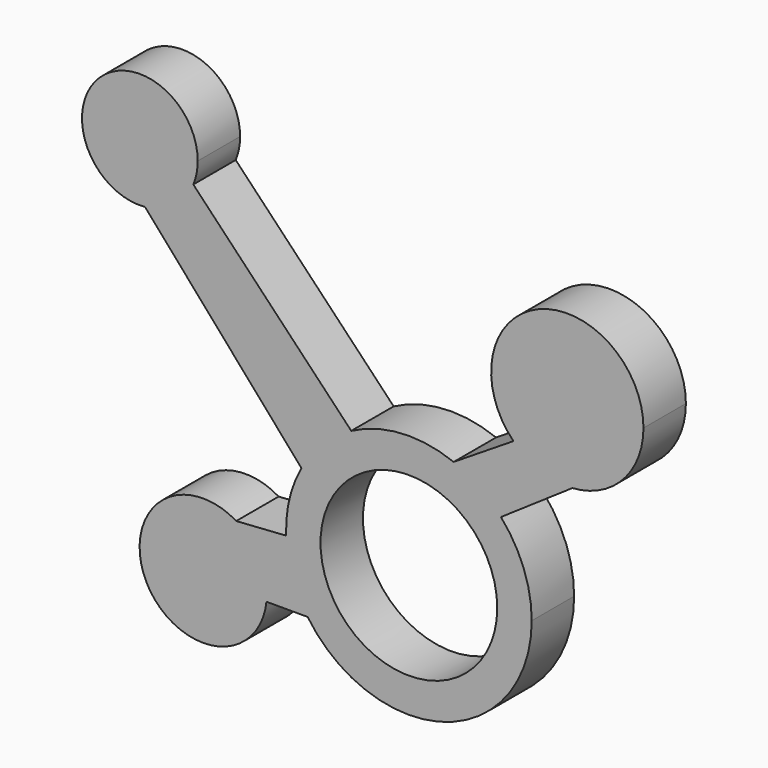
from build123d import *

# Parameters (mm, degrees)
F0_R     = 20
F1_DEPTH = 12


with BuildPart() as f1:
    # F0 (on Front) → F1 (new body)
    with BuildSketch(Plane.XZ):
        with BuildLine():
            ThreePointArc((-45.1402234044, 130.0868427911), (-44.3953824054, 132.5425897679), (-44.1438812161, 135.0964551676))
            ThreePointArc((-44.1438812161, 135.0964551676), (-66.902815449, 143.9263254526), (-56.0541389315, 122.0575825878))
            ThreePointArc((-56.0541389315, 122.0575825878), (-49.477735957, 124.5505867663), (-45.1402234044, 130.0868427911))
        make_face()
        with BuildLine():
            ThreePointArc((-45.1402234044, 130.0868427911), (-49.477735957, 124.5505867663), (-56.0541389315, 122.0575825878))
            Line((-56.0541389315, 122.0575825878), (-20.6749169362, 81.5374788645))
            ThreePointArc((-20.6749169362, 81.5374788645), (-15.8403911831, 87.9020164198), (-9.3949234629, 92.6281060737))
            Line((-9.3949234629, 92.6281060737), (-45.1402234044, 130.0868427911))
        make_face()
        with BuildLine():
            ThreePointArc((-9.3949234629, 92.6281060737), (-15.8403911831, 87.9020164198), (-20.6749169362, 81.5374788645))
            ThreePointArc((-20.6749169362, 81.5374788645), (-23.4023159827, 74.4832519056), (-24.1275682376, 66.9549830001))
            ThreePointArc((-24.1275682376, 66.9549830001), (-22.7294741415, 59.3041231282), (-19.2667531461, 52.3399370889))
            ThreePointArc((-19.2667531461, 52.3399370889), (11.8900093443, 41.5257597874), (31.4519924852, 68.0779554628))
            ThreePointArc((31.4519924852, 68.0779554628), (29.653096416, 77.915975697), (24.4892064897, 86.4808405543))
            ThreePointArc((24.4892064897, 86.4808405543), (19.5802695472, 90.8629659463), (13.7789121862, 93.968595935))
            ThreePointArc((13.7789121862, 93.968595935), (2.0453958796, 95.8326850768), (-9.3949234629, 92.6281060737))
        make_face()
        with Locations((3.6508674214, 68.0779554628)):
            Circle(F0_R, mode=Mode.SUBTRACT)
        with BuildLine():
            ThreePointArc((-19.2667531461, 52.3399370889), (-22.7294741415, 59.3041231282), (-24.1275682376, 66.9549830001))
            Line((-24.1275682376, 66.9549830001), (-35.430176559, 66.1910267504))
            ThreePointArc((-35.430176559, 66.1910267504), (-32.4777200289, 63.8186090674), (-30.2460369862, 60.7583875033))
            ThreePointArc((-30.2460369862, 60.7583875033), (-28.9402630028, 57.4278194818), (-28.4958610621, 53.8781383755))
            ThreePointArc((-28.4958610621, 53.8781383755), (-28.5164751814, 53.1079350682), (-28.5782585148, 52.3399370889))
            Line((-28.5782585148, 52.3399370889), (-19.2667531461, 52.3399370889))
        make_face()
        with BuildLine():
            Line((27.3106167301, 102.5154178797), (13.7789121862, 93.968595935))
            ThreePointArc((13.7789121862, 93.968595935), (19.5802695472, 90.8629659463), (24.4892064897, 86.4808405543))
            Line((24.4892064897, 86.4808405543), (40.6466048753, 97.4983605522))
            ThreePointArc((40.6466048753, 97.4983605522), (33.435945257, 98.5644139139), (27.3106167301, 102.5154178797))
        make_face()
        with BuildLine():
            Line((-30.2460369862, 60.7583875033), (-35.430176559, 66.1910267504))
            ThreePointArc((-35.430176559, 66.1910267504), (-55.8007056513, 47.4937303618), (-28.5782585148, 52.3399370889))
            ThreePointArc((-28.5782585148, 52.3399370889), (-28.5164751814, 53.1079350682), (-28.4958610621, 53.8781383755))
            ThreePointArc((-28.4958610621, 53.8781383755), (-28.9402630028, 57.4278194818), (-30.2460369862, 60.7583875033))
        make_face()
        with BuildLine():
            ThreePointArc((-30.2460369862, 60.7583875033), (-32.4777200289, 63.8186090674), (-35.430176559, 66.1910267504))
            Line((-35.430176559, 66.1910267504), (-30.2460369862, 60.7583875033))
        make_face()
        with BuildLine():
            ThreePointArc((56.7421202866, 114.697404157), (32.9131115376, 130.6239087268), (27.3106167301, 102.5154178797))
            ThreePointArc((27.3106167301, 102.5154178797), (33.435945257, 98.5644139139), (40.6466048753, 97.4983605522))
            ThreePointArc((40.6466048753, 97.4983605522), (52.0906202883, 102.9195359578), (56.7421202866, 114.697404157))
        make_face()
    extrude(amount=F1_DEPTH)


solid = f1.part
